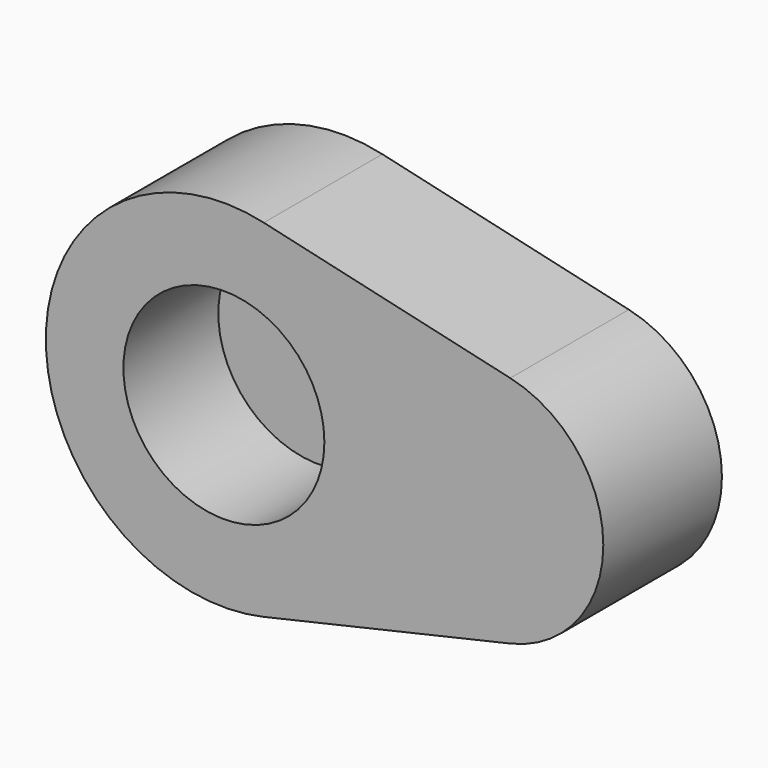
from build123d import *

# Parameters (mm, degrees)
F1_DEPTH = 25
F2_R     = 16.943766
F3_DEPTH = 20


with BuildPart() as f1:
    # F0 (on Front) → F1 (new body)
    with BuildSketch(Plane.XZ):
        with BuildLine():
            Line((25.009147, 19.70269), (-16.551667, 29.257499))
            ThreePointArc((-16.551667, 29.257499), (-53.298677, 0), (-16.551667, -29.257499))
            Line((-16.551667, -29.257499), (25.009147, -19.70269))
            ThreePointArc((25.009147, -19.70269), (40.696177, 0), (25.009147, 19.70269))
        make_face()
    extrude(amount=-F1_DEPTH)

    # F2 (on face) → F3 (cut)
    with BuildSketch(Plane.XZ):
        with Locations((-23.27795, 0)):
            Circle(F2_R)
    extrude(amount=-F3_DEPTH, mode=Mode.SUBTRACT)


solid = f1.part
